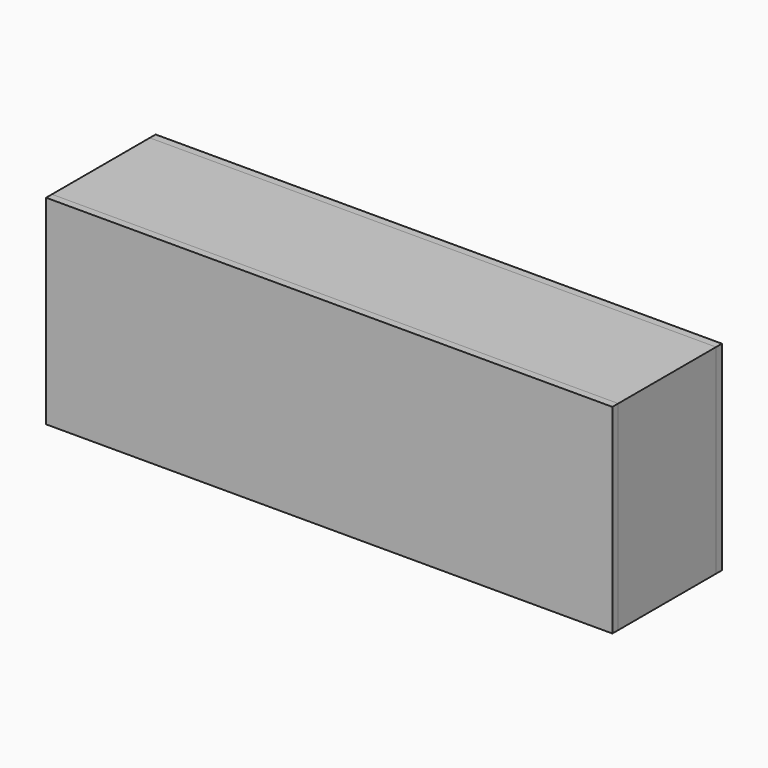
from build123d import *

# Parameters (mm, degrees)
F0_W        = 230
F0_H        = 80
F0_W_2      = 220
F0_H_2      = 70
F1_DEPTH    = 50
F2_DEPTH    = 5
F0_W_3      = 231.6
F0_H_3      = 81.6
F3_DEPTH    = 3
F4_DEPTH    = 50
F5_W        = 220
F5_H        = 70
F6_DEPTH    = 5
F4_FACE_W   = 231.6
F4_FACE_H   = 81.6
F4_FACE_W_2 = 230
F4_FACE_H_2 = 80
F1_FACE_W   = 230
F1_FACE_H   = 80
F1_FACE_W_2 = 220
F1_FACE_H_2 = 70
F6_FACE_W   = 220
F6_FACE_H   = 70
F7_DEPTH    = 3


with BuildPart() as f1:
    # F0 (on Front) → F1 (new body)
    with BuildSketch(Plane.XZ):
        Rectangle(F0_W, F0_H)
        Rectangle(F0_W_2, F0_H_2, mode=Mode.SUBTRACT)
    extrude(amount=-F1_DEPTH)


with BuildPart() as f2:
    # F0 (on Front) → F2 (new body)
    with BuildSketch(Plane.XZ):
        Rectangle(F0_W_2, F0_H_2)
    extrude(amount=-F2_DEPTH)


with BuildPart() as f3:
    # F0 (on Front) → F3 (new body)
    with BuildSketch(Plane.XZ):
        Rectangle(F0_W_3, F0_H_3)
        Rectangle(F0_W, F0_H, mode=Mode.SUBTRACT)
        Rectangle(F0_W, F0_H)
        Rectangle(F0_W_2, F0_H_2, mode=Mode.SUBTRACT)
        Rectangle(F0_W_2, F0_H_2)
    extrude(amount=F3_DEPTH)


with BuildPart() as f4:
    # F0 (on Front) → F4 (new body)
    with BuildSketch(Plane.XZ):
        Rectangle(F0_W_3, F0_H_3)
        Rectangle(F0_W, F0_H, mode=Mode.SUBTRACT)
    extrude(amount=-F4_DEPTH)


with BuildPart() as f6:
    # F5 (on face) → F6 (new body)
    with BuildSketch(Plane(origin=(0, 50, 0), x_dir=(-1, 0, 0), z_dir=(0, 1, 0))):
        Rectangle(F5_W, F5_H)
    extrude(amount=-F6_DEPTH)


with BuildPart() as f7:
    # F4_face (on face) + F1_face (on face) + F6_face (on face) → F7 (new body)
    with BuildSketch(Plane(origin=(0, 50, 0), x_dir=(1, 0, 0), z_dir=(0, 1, 0))):
        Rectangle(F4_FACE_W, F4_FACE_H)
        Rectangle(F4_FACE_W_2, F4_FACE_H_2, mode=Mode.SUBTRACT)
    with BuildSketch(Plane(origin=(0, 50, 0), x_dir=(1, 0, 0), z_dir=(0, 1, 0))):
        Rectangle(F1_FACE_W, F1_FACE_H)
        Rectangle(F1_FACE_W_2, F1_FACE_H_2, mode=Mode.SUBTRACT)
    with BuildSketch(Plane(origin=(0, 50, 0), x_dir=(-1, 0, 0), z_dir=(0, 1, 0))):
        Rectangle(F6_FACE_W, F6_FACE_H)
    extrude(amount=F7_DEPTH)


solid = Compound([f1.part, f2.part, f3.part, f4.part, f6.part, f7.part])
